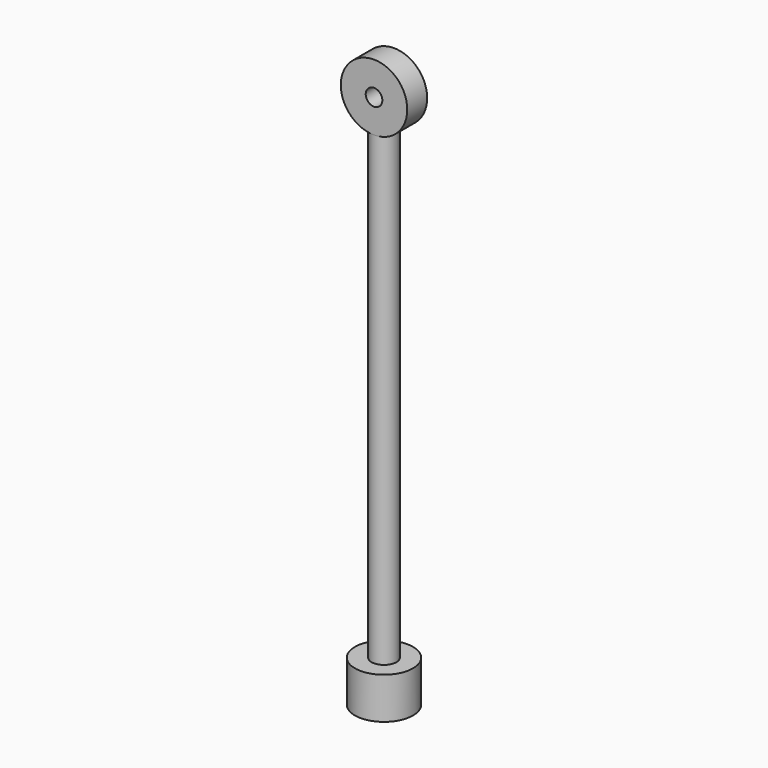
from build123d import *

# Parameters (mm, degrees)
F0_R     = 20
F0_R_2   = 5
F1_DEPTH = 7.5
F3_R     = 7.5
F5_R     = 17.5
F6_DEPTH = 25


with BuildPart() as f1:
    # F0 (on Front) → F1 (new body, symmetric)
    with BuildSketch(Plane.XZ):
        Circle(F0_R)
        Circle(F0_R_2, mode=Mode.SUBTRACT)
    extrude(amount=F1_DEPTH, both=True)

    # F3 (on offset) → F4 (join, up to the next surface of F1)
    with BuildSketch(Plane.XY.offset(-300)):
        Circle(F3_R)
    extrude(until=Until.NEXT)

    # F5 (on offset) → F6 (join)
    with BuildSketch(Plane.XY.offset(-300)):
        Circle(F5_R)
    extrude(amount=-F6_DEPTH)


solid = f1.part
